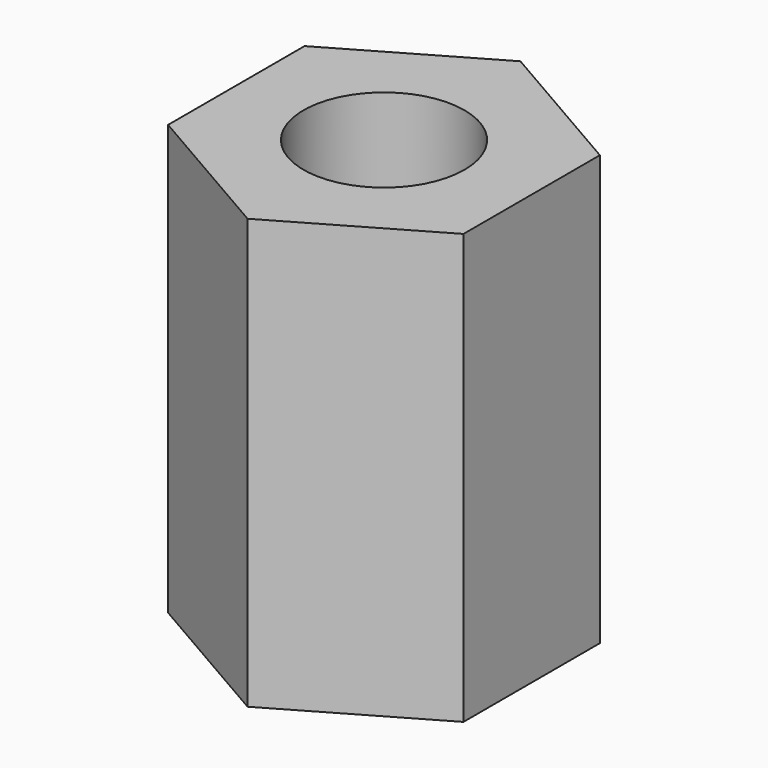
from build123d import *

# Parameters (mm, degrees)
SKETCH_R  = 1.5
PAD_DEPTH = 8


with BuildPart() as part:
    # Sketch → Pad (new body)
    with BuildSketch(Plane.XY):
        Polygon((0, 3.175426), (-2.75, 1.587713), (-2.75, -1.587713), (0, -3.175426), (2.75, -1.587713), (2.75, 1.587713), align=None)
        Circle(SKETCH_R, mode=Mode.SUBTRACT)
    extrude(amount=PAD_DEPTH)


solid = part.part
